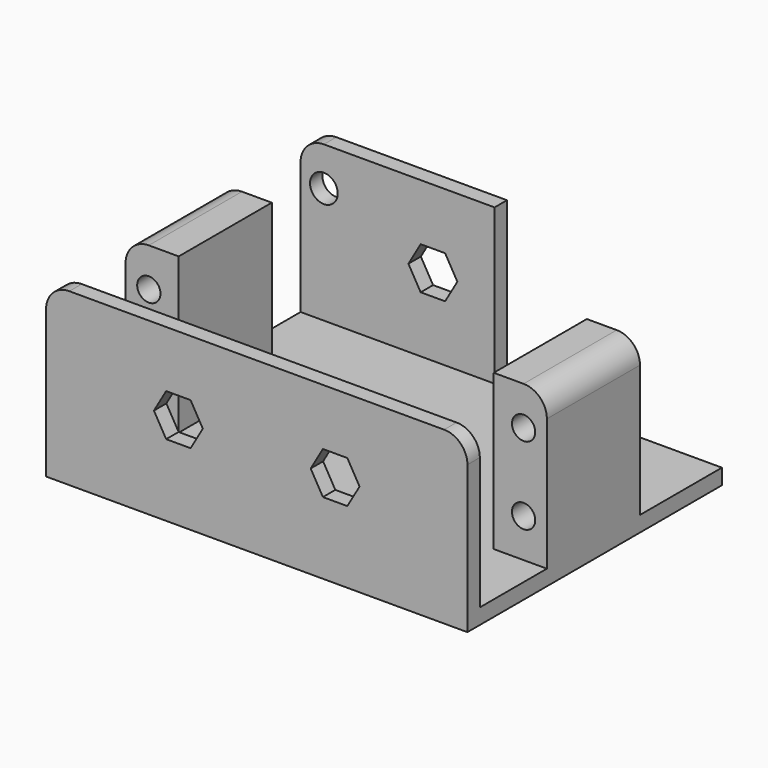
from build123d import *

# Parameters (mm, degrees)
SKETCH_W        = 54.3
SKETCH_H        = 39
PAD_DEPTH       = 2
SKETCH001_W     = 54.3
SKETCH001_H     = 2
PAD001_DEPTH    = 22
SKETCH003_W     = 6.85
SKETCH003_H     = 15
PAD003_DEPTH    = 22
SKETCH004_R     = 1.5
POCKET_DEPTH    = 15
SKETCH005_W     = 6.85
SKETCH005_H     = 15
PAD004_DEPTH    = 22
SKETCH006_R     = 1.5
POCKET001_DEPTH = 15
SKETCH007_W     = 25
SKETCH007_H     = 2
PAD005_DEPTH    = 22
POCKET002_DEPTH = 2.5
POCKET003_DEPTH = 5
FILLET_R        = 3
FILLET001_R     = 3
FILLET002_R     = 3
FILLET003_R     = 3
FILLET004_R     = 3
SKETCH010_R     = 1.786385
POCKET004_DEPTH = 5


with BuildPart() as part:
    # Sketch → Pad (new body)
    with BuildSketch(Plane.XY):
        with Locations((27.15, 21.5)):
            Rectangle(SKETCH_W, SKETCH_H)
    extrude(amount=PAD_DEPTH)

    # Sketch001 → Pad001 (join)
    with BuildSketch(Plane.XY):
        with Locations((27.15, 1)):
            Rectangle(SKETCH001_W, SKETCH001_H)
    extrude(amount=PAD001_DEPTH)

    # Sketch003 → Pad003 (join)
    with BuildSketch(Plane.XY):
        with Locations((3.425, 20.3)):
            Rectangle(SKETCH003_W, SKETCH003_H)
    extrude(amount=PAD003_DEPTH)

    # Sketch004 (on Face14 of Pad003) → Pocket (cut)
    with BuildSketch(Plane(origin=(0, 27.8, 0), x_dir=(-1, 0, 0), z_dir=(0, 1, 0))):
        with Locations((-3, 17)):
            Circle(SKETCH004_R)
        with Locations((-3, 7)):
            Circle(SKETCH004_R)
    extrude(amount=-POCKET_DEPTH, mode=Mode.SUBTRACT)

    # Sketch005 → Pad004 (join)
    with BuildSketch(Plane.XY):
        with Locations((50.875, 20.3)):
            Rectangle(SKETCH005_W, SKETCH005_H)
    extrude(amount=PAD004_DEPTH)

    # Sketch006 (on Face13 of Pad004) → Pocket001 (cut)
    with BuildSketch(Plane(origin=(0, 27.8, 0), x_dir=(-1, 0, 0), z_dir=(0, 1, 0))):
        with Locations((-51.3, 17)):
            Circle(SKETCH006_R)
        with Locations((-51.3, 7)):
            Circle(SKETCH006_R)
    extrude(amount=-POCKET001_DEPTH, mode=Mode.SUBTRACT)

    # Sketch007 (on Face4 of Pocket001) → Pad005 (join)
    with BuildSketch(Plane(origin=(0, 0, 0), x_dir=(1, 0, 0), z_dir=(0, 0, -1))):
        with Locations((12.5, -42)):
            Rectangle(SKETCH007_W, SKETCH007_H)
    extrude(amount=-PAD005_DEPTH)

    # Sketch008 (on Face18 of Pad005) → Pocket002 (cut)
    with BuildSketch(Plane(origin=(0, 2, 0), x_dir=(-1, 0, 0), z_dir=(0, 1, 0))):
        Polygon((-34.1, 12), (-35.675, 14.72798), (-38.825, 14.72798), (-40.4, 12), (-38.825, 9.27202), (-35.675, 9.27202), align=None)
        Polygon((-15.475, 14.72798), (-18.625, 14.72798), (-20.2, 12), (-18.625, 9.27202), (-15.475, 9.27202), (-13.9, 12), align=None)
    extrude(amount=-POCKET002_DEPTH, mode=Mode.SUBTRACT)

    # Sketch009 (on Face22 of Pocket002) → Pocket003 (cut)
    with BuildSketch(Plane(origin=(0, 43, 0), x_dir=(-1, 0, 0), z_dir=(0, 1, 0))):
        Polygon((-13.9, 12), (-15.475, 14.72798), (-18.625, 14.72798), (-20.2, 12), (-18.625, 9.27202), (-15.475, 9.27202), align=None)
    extrude(amount=-POCKET003_DEPTH, mode=Mode.SUBTRACT)

    # Fillet
    fillet_edges = [part.edges().sort_by_distance(p)[0] for p in [
        (0, 42, 22),
    ]]
    fillet(fillet_edges, radius=FILLET_R)

    # Fillet001
    fillet001_edges = [part.edges().sort_by_distance(p)[0] for p in [
        (0, 1, 22),
    ]]
    fillet(fillet001_edges, radius=FILLET001_R)

    # Fillet002
    fillet002_edges = [part.edges().sort_by_distance(p)[0] for p in [
        (0, 20.3, 22),
    ]]
    fillet(fillet002_edges, radius=FILLET002_R)

    # Fillet003
    fillet003_edges = [part.edges().sort_by_distance(p)[0] for p in [
        (54.3, 1, 22),
    ]]
    fillet(fillet003_edges, radius=FILLET003_R)

    # Fillet004
    fillet004_edges = [part.edges().sort_by_distance(p)[0] for p in [
        (54.3, 20.3, 22),
    ]]
    fillet(fillet004_edges, radius=FILLET004_R)

    # Sketch010 (on Face56 of Fillet004) → Pocket004 (cut)
    with BuildSketch(Plane(origin=(0, 43, 0), x_dir=(-1, 0, 0), z_dir=(0, 1, 0))):
        with Locations((-3, 17)):
            Circle(SKETCH010_R)
    extrude(amount=-POCKET004_DEPTH, mode=Mode.SUBTRACT)


solid = part.part
